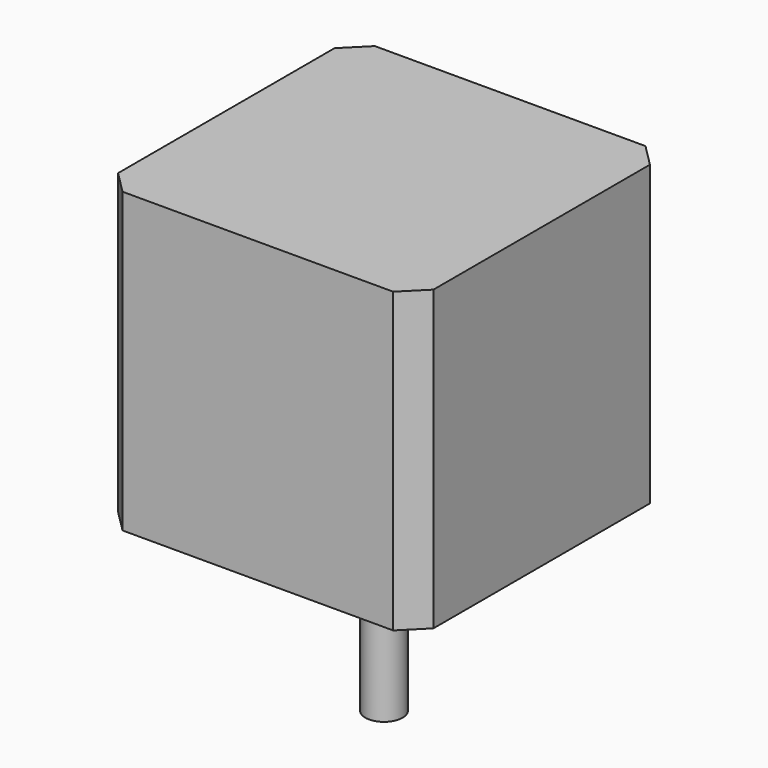
from build123d import *

# Parameters (mm, degrees)
SKETCH074_W             = 42.3
SKETCH074_H             = 42.3
PAD032_DEPTH            = 40
CHAMFER010_SIZE         = 3
SKETCH075_R             = 1.5
POCKET011_DEPTH         = 4.5
SKETCH076_R             = 11
PAD033_DEPTH            = 2
SKETCH077_R             = 2.5
PAD034_DEPTH            = 22
BODY017_ROLL_ANGLE      = 180
BODY017_PLACEMENT_ANGLE = 90


with BuildPart() as part:
    # Sketch074 → Pad032 (new body)
    with BuildSketch(Plane.XY):
        Rectangle(SKETCH074_W, SKETCH074_H)
    extrude(amount=PAD032_DEPTH)

    # Chamfer010
    chamfer010_edges = [part.edges().sort_by_distance(p)[0] for p in [
        (-21.15, -21.15, 20),
        (21.15, -21.15, 20),
        (21.15, 21.15, 20),
        (-21.15, 21.15, 20),
    ]]
    chamfer(chamfer010_edges, length=CHAMFER010_SIZE)

    # Sketch075 (on Face5 of Chamfer010) → Pocket011 (cut)
    with BuildSketch(Plane.XY.offset(40)):
        with Locations((15.5, -15.5)):
            Circle(SKETCH075_R)
        with Locations((-15.5, -15.5)):
            Circle(SKETCH075_R)
        with Locations((-15.5, 15.5)):
            Circle(SKETCH075_R)
        with Locations((15.5, 15.5)):
            Circle(SKETCH075_R)
    extrude(amount=-POCKET011_DEPTH, mode=Mode.SUBTRACT)

    # Sketch076 (on Face5 of Pocket011) → Pad033 (join)
    with BuildSketch(Plane.XY.offset(40)):
        Circle(SKETCH076_R)
    extrude(amount=PAD033_DEPTH)

    # Sketch077 (on Face19 of Pad033) → Pad034 (join)
    with BuildSketch(Plane.XY.offset(42)):
        Circle(SKETCH077_R)
    extrude(amount=PAD034_DEPTH)


with BuildPart() as part_1:
    # Body017 roll: moved
    add(part.part.rotate(Axis((0, 0, 0), (1, 0, 0)), BODY017_ROLL_ANGLE))


with BuildPart() as part_2:
    # Body017 placement: moved
    add(part_1.part.moved(Location((0, 67.5, -61))).rotate(Axis((0, 67.5, -61), (0, 0, 1)), BODY017_PLACEMENT_ANGLE))


solid = part_2.part
